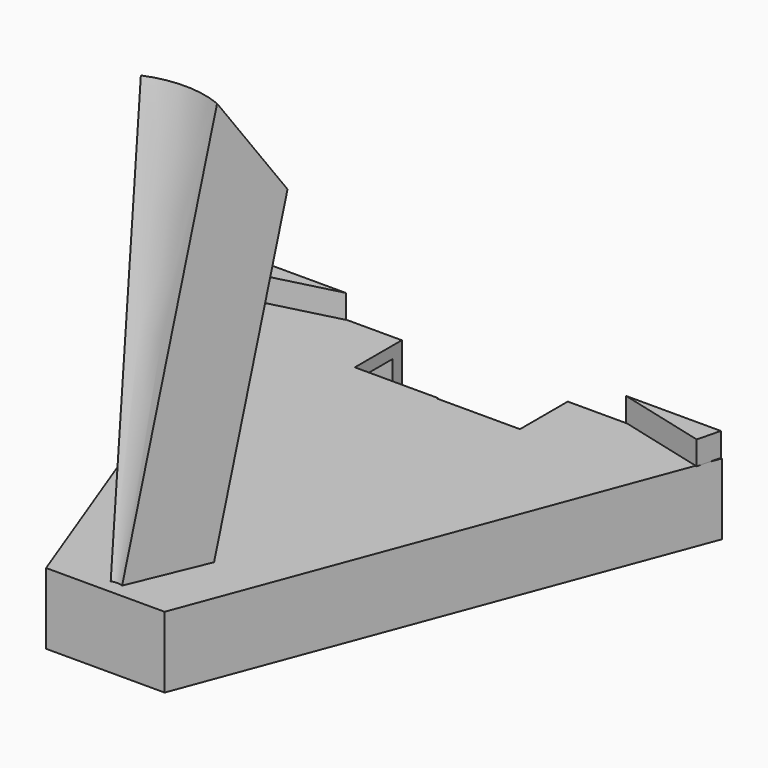
from build123d import *

# Parameters (mm, degrees)
F1_DEPTH      = 15.24
F3_T          = -2.54
F5_ANGLE_BACK = 22.5
F5_ANGLE      = 45
F9_DEPTH      = 5.08
F10_W         = 17.78
F10_H         = 12.7
F11_DEPTH     = 15.241


with BuildPart() as f1:
    # F0 (on Top) → F1 (new body)
    with BuildSketch(Plane.XY):
        Polygon((-50.8, 101.6), (-12.7, 0), (12.7, 0), (50.8, 101.6), align=None)
    extrude(amount=F1_DEPTH)

    # F3
    f3_openings = [f1.faces().sort_by_distance(p)[0] for p in [
        (0, 60.96, 0),
    ]]
    offset(amount=F3_T, openings=f3_openings)

    # F4 (on plane+point) → F5 (revolve)
    with BuildSketch(Plane.YZ, mode=Mode.PRIVATE) as f5_sk:
        Polygon((21.3342867792, 101.6), (0, 0), (17.5560421489, 0), (34.7880832851, 82.0639282465), align=None)
    revolve(f5_sk.sketch.rotate(Axis((0, 0, 50.8), (0, 0, 1)), -F5_ANGLE_BACK), axis=Axis((0, 0, 50.8), (0, 0, 1)), revolution_arc=F5_ANGLE)

    # F8 (on plane+point) + F7 (on plane+point) → F9 (join)
    with BuildSketch(Plane.XY.offset(15.24)):
        Polygon((49.2891350908, 96.7381212808), (50.525897119, 101.6652725557), (30.205897119, 101.6652725557), align=None)
    with BuildSketch(Plane.XY.offset(15.24)):
        Polygon((-29.7071077564, 101.5182593561), (-50.0271077564, 101.5182593561), (-49.2234366628, 96.5022337608), align=None)
    extrude(amount=F9_DEPTH)

    # F10 (on plane+point) → F11 (cut, through all)
    with BuildSketch(Plane.XY.offset(15.24)):
        Polygon((17.78, 101.726842235), (0, 101.726842235), (0, 89.026842235), (0, 88.7915473778), (17.78, 88.7915473778), align=None)
        with Locations((-8.89, 95.376842235)):
            Rectangle(F10_W, F10_H)
    extrude(amount=-F11_DEPTH, mode=Mode.SUBTRACT)


solid = f1.part
